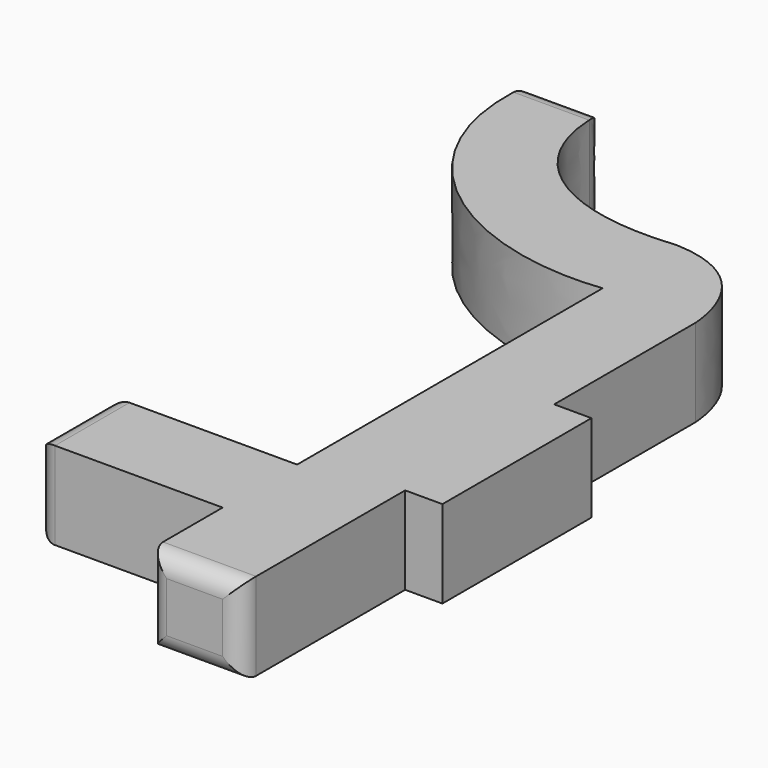
from build123d import *

# Parameters (mm, degrees)
F0_W     = 2
F0_H     = 10
F1_DEPTH = 4.7
F2_R     = 1
F3_R     = 1
F4_R     = 1


with BuildPart() as f1:
    # F0 (on Top) → F1 (new body)
    with BuildSketch(Plane.XY):
        with BuildLine():
            Line((-9.963439, 33.065276), (-13.963439, 33.065276))
            add(Edge.make_bspline(
                [(-13.963439, 33.065276), (-14.933051, 24.878523), (-7.296724, 19.661296), (0, 20.5)],
                knots=[0, 0, 0, 0, 18.784669, 18.784669, 18.784669, 18.784669], degree=3))
            Line((0, 20.5), (0, 0))
            Line((0, 0), (-10, 0))
            Line((-10, 0), (-10, -5))
            Line((-10, -5), (0, -5))
            Line((0, -5), (0, -10))
            Line((0, -10), (5, -10))
            Line((5, -10), (5, 1))
            Line((5, 1), (5, 11))
            Line((5, 11), (5, 20.5))
            add(Edge.make_bspline(
                [(0, 25.5), (4.53556, 25.319498), (4.944229, 21.235214), (5, 20.5)],
                knots=[0, 0, 0, 0, 7.071068, 7.071068, 7.071068, 7.071068], degree=3))
            add(Edge.make_bspline(
                [(-9.963439, 33.065276), (-10.31617, 28.009873), (-6.350763, 24.845181), (0, 25.5)],
                knots=[0, 0, 0, 0, 12.510137, 12.510137, 12.510137, 12.510137], degree=3))
        make_face()
        with Locations((6, 6)):
            Rectangle(F0_W, F0_H)
    extrude(amount=F1_DEPTH)

    # F2
    f2_edges = [f1.edges().sort_by_distance(p)[0] for p in [
        (-9.963439, 33.065276, 2.35),
        (-13.963439, 33.065276, 2.35),
        (-11.963439, 33.065276, 0),
        (-11.963439, 33.065276, 4.7),
    ]]
    fillet(f2_edges, radius=F2_R)

    # F3
    f3_edges = [f1.edges().sort_by_distance(p)[0] for p in [
        (-10, 0, 2.35),
        (-10, -5, 2.35),
        (-10, -2.5, 0),
        (-10, -2.5, 4.7),
    ]]
    fillet(f3_edges, radius=F3_R)

    # F4
    f4_edges = [f1.edges().sort_by_distance(p)[0] for p in [
        (0, -10, 2.35),
        (5, -10, 2.35),
        (2.5, -10, 0),
        (2.5, -10, 4.7),
    ]]
    fillet(f4_edges, radius=F4_R)


solid = f1.part
